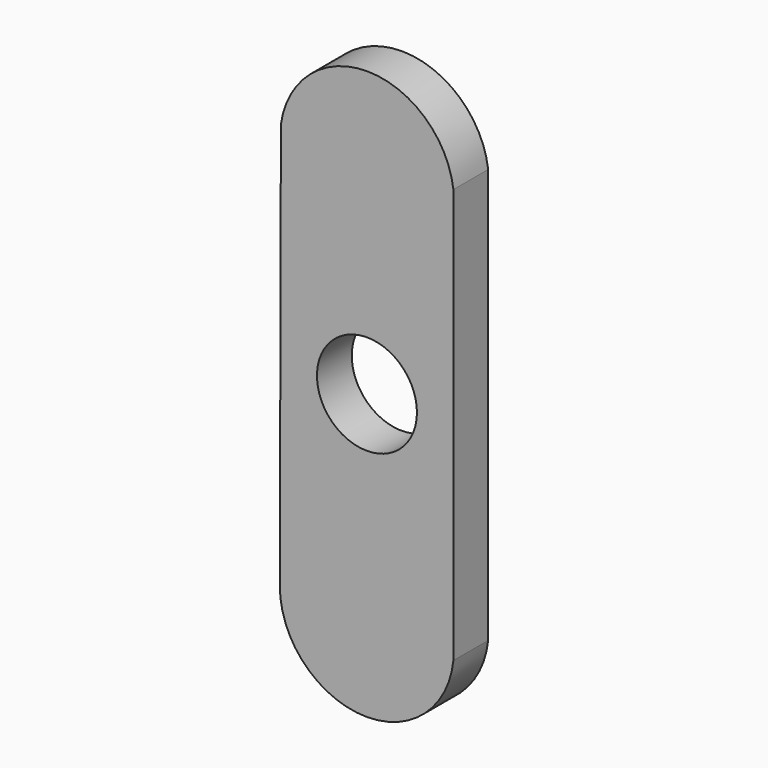
from build123d import *

# Parameters (mm, degrees)
F0_R     = 29.21
F1_DEPTH = 25.4


with BuildPart() as f1:
    # F0 (on Front) → F1 (new body)
    with BuildSketch(Plane.XZ):
        with BuildLine():
            Line((50.449734673, -72.2468710004), (50.449734673, 146.5551168173))
            Line((50.449734673, 146.5551168173), (50.449734673, 159.3308476873))
            ThreePointArc((50.449734673, 159.3308476873), (0.3722424884, 203.7941571545), (-50.3508118561, 160.0687312533))
            Line((-50.3508118561, 160.0687312533), (-50.3875055048, 146.0815070173))
            Line((-50.3875055048, 146.0815070173), (-50.9739224312, -77.4543185192))
            ThreePointArc((-50.9739224312, -77.4543185192), (-2.8622937198, -128.3663497529), (50.449734673, -82.9285750468))
            Line((50.449734673, -82.9285750468), (50.449734673, -72.2468710004))
        make_face()
        with Locations((-0.0607800403, 37.6776296144)):
            Circle(F0_R, mode=Mode.SUBTRACT)
    extrude(amount=F1_DEPTH)


solid = f1.part
